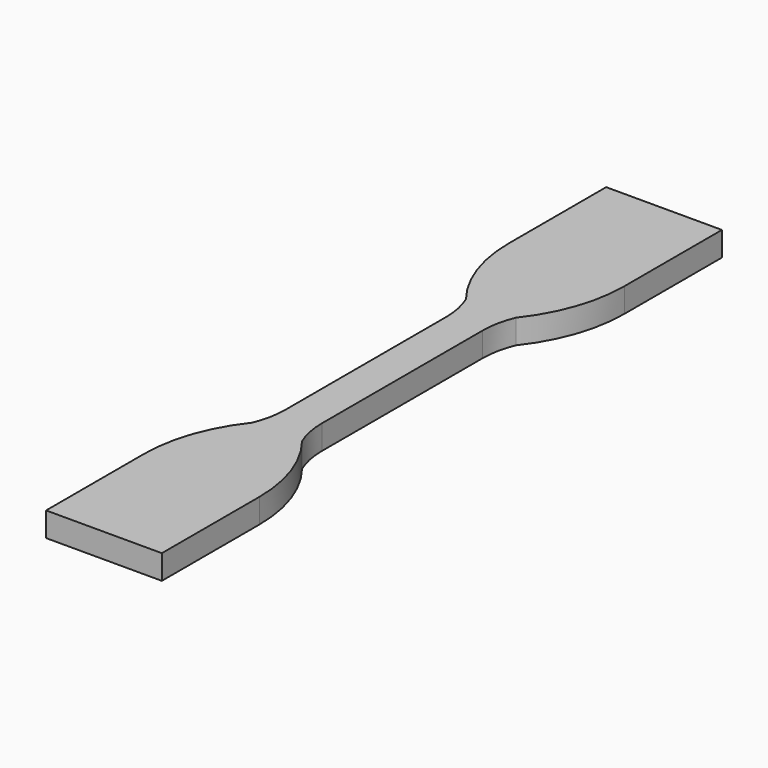
from build123d import *

# Parameters (mm, degrees)
F1_DEPTH = 4


with BuildPart() as f1:
    # F0 (on Top) → F1 (new body)
    with BuildSketch(Plane.XY):
        with BuildLine():
            Line((-9.5, 57.454867), (-9.5, 37.454867))
            ThreePointArc((-9.5, 37.454867), (-8.110527, 29.236411), (-4.096559, 21.931501))
            ThreePointArc((-4.096559, 21.931501), (-3.276878, 19.270544), (-3, 16.5))
            Line((-3, 16.5), (-3, 0))
            Line((-3, 0), (0, 0))
            Line((0, 0), (0, 57.454867))
            Line((0, 57.454867), (-9.5, 57.454867))
        make_face()
    extrude(amount=F1_DEPTH)

    # F2: F1 across face


with BuildPart() as f1_1:
    add(f1.part)
    add(f1.part.mirror(Plane(origin=(-1.5, 0, 2), x_dir=(1, 0, 0), z_dir=(0, -1, 0))))

    # F3: F1 across face


with BuildPart() as f1_2:
    add(f1_1.part)
    add(f1_1.part.mirror(Plane(origin=(0, 0, 2), x_dir=(0, 1, 0), z_dir=(1, 0, 0))))


solid = f1_2.part
